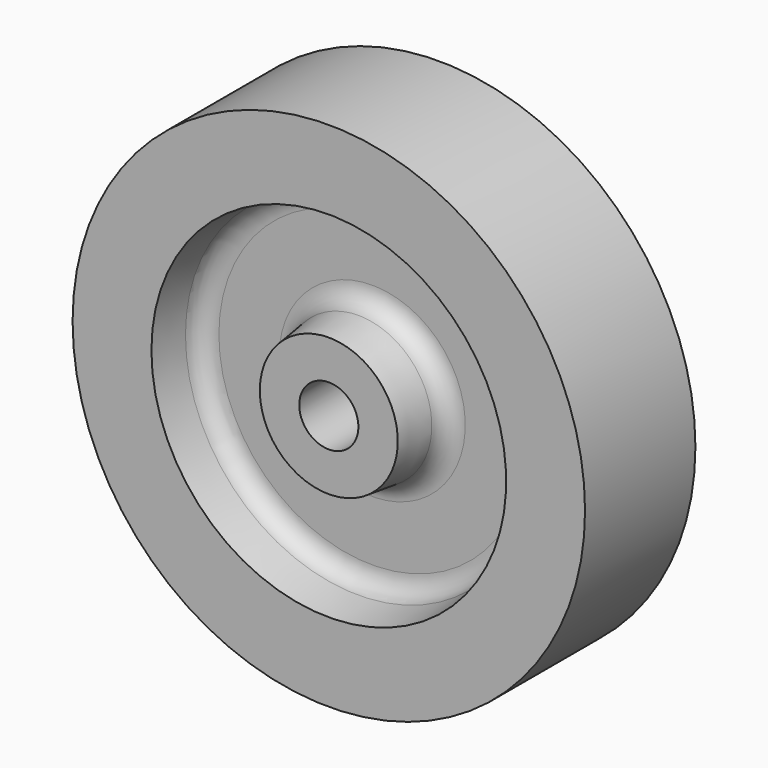
from build123d import *


with BuildPart() as f1:
    # F0 (on Top) → F1 (revolve)
    with BuildSketch(Plane.XY):
        with BuildLine():
            Line((-9.525, 0), (-9.525, 22.225))
            Line((-9.525, 22.225), (-22.225, 22.225))
            Line((-22.225, 22.225), (-23.684463, 10.33863))
            ThreePointArc((-23.684463, 10.33863), (-25.779494, 6.356631), (-29.987131, 4.7625))
            Line((-29.987131, 4.7625), (-49.387869, 4.7625))
            ThreePointArc((-49.387869, 4.7625), (-53.595506, 6.356631), (-55.690537, 10.33863))
            Line((-55.690537, 10.33863), (-57.15, 22.225))
            Line((-57.15, 22.225), (-82.55, 22.225))
            Line((-82.55, 22.225), (-82.55, 0))
            Line((-82.55, 0), (-82.55, -22.225))
            Line((-82.55, -22.225), (-57.15, -22.225))
            Line((-57.15, -22.225), (-55.690537, -10.33863))
            ThreePointArc((-55.690537, -10.33863), (-53.595506, -6.356631), (-49.387869, -4.7625))
            Line((-49.387869, -4.7625), (-29.987131, -4.7625))
            ThreePointArc((-29.987131, -4.7625), (-25.779494, -6.356631), (-23.684463, -10.33863))
            Line((-23.684463, -10.33863), (-22.225, -22.225))
            Line((-22.225, -22.225), (-9.525, -22.225))
            Line((-9.525, -22.225), (-9.525, 0))
        make_face()
    revolve(axis=Axis((0, 5.129997, 0), (0, -1, 0)))


solid = f1.part
